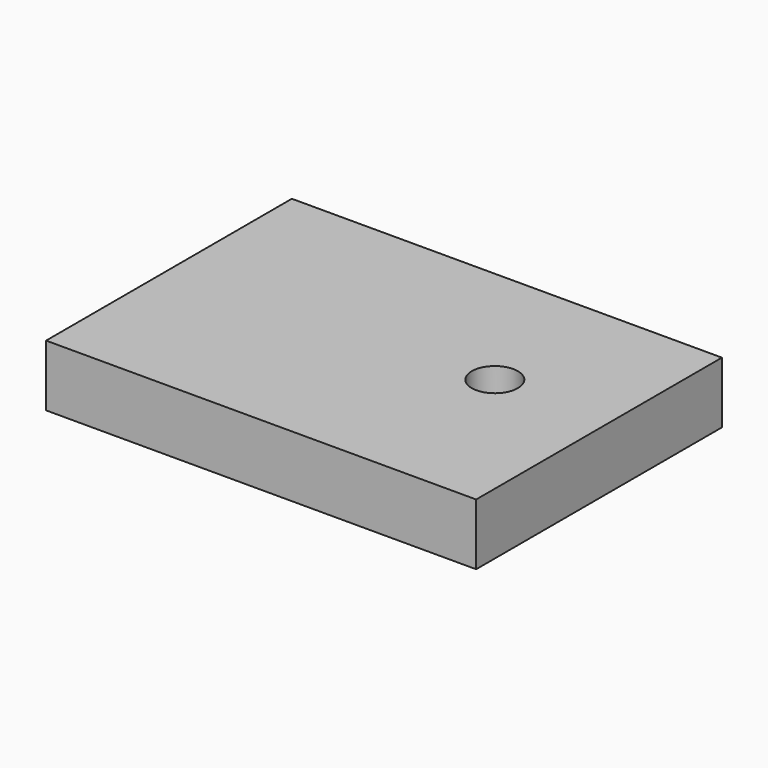
from build123d import *

# Parameters (mm, degrees)
F0_W     = 40
F0_H     = 8
F1_DEPTH = 56
F2_R     = 3
F3_DEPTH = 11.1


with BuildPart() as f1:
    # F0 (on Right) → F1 (new body)
    with BuildSketch(Plane.YZ):
        with Locations((21.365855, 4)):
            Rectangle(F0_W, F0_H)
    extrude(amount=F1_DEPTH)

    # F2 (on face) → F3 (cut)
    with BuildSketch(Plane(origin=(0, 0, 0), x_dir=(1, 0, 0), z_dir=(0, 0, -1))):
        with Locations((41, -23.152475)):
            Circle(F2_R)
    extrude(amount=-F3_DEPTH, mode=Mode.SUBTRACT)


solid = f1.part
